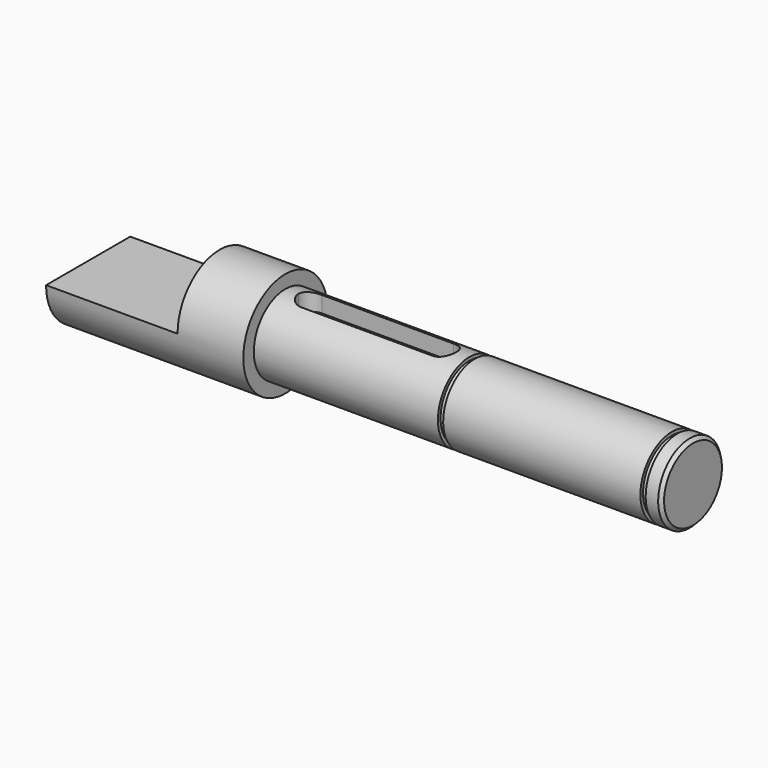
from build123d import *

# Parameters (mm, degrees)
F4_W     = 20
F4_H     = 25.605118
F5_DEPTH = 8
F7_DEPTH = 2.8
F8_SIZE  = 0.5


with BuildPart() as f1:
    # F0 (on Front) → F1 (revolve)
    with BuildSketch(Plane.XZ):
        Polygon((0, 8), (0, 0), (92, 0), (92, 6), (89.6, 6), (89.6, 5.5), (88.8, 5.5), (88.8, 6), (58.8, 6), (58.8, 5.5), (58, 5.5), (58, 6), (30, 6), (30, 8), align=None)
    revolve(axis=Axis((46, 0, 0), (-1, 0, 0)))

    # F4 (on offset) → F5 (cut)
    with BuildSketch(Plane.XY.offset(8)):
        with Locations((10, -2.362951)):
            Rectangle(F4_W, F4_H)
    extrude(amount=-F5_DEPTH, mode=Mode.SUBTRACT)

    # F6 (on offset) → F7 (cut)
    with BuildSketch(Plane.XY.offset(6)):
        with BuildLine():
            Line((54, 2), (34, 2))
            ThreePointArc((34, 2), (32.585786, 1.414214), (32, 0))
            ThreePointArc((32, 0), (32.585786, -1.414214), (34, -2))
            Line((34, -2), (54, -2))
            ThreePointArc((54, -2), (55.414214, -1.414214), (56, 0))
            ThreePointArc((56, 0), (55.414214, 1.414214), (54, 2))
        make_face()
    extrude(amount=-F7_DEPTH, mode=Mode.SUBTRACT)

    # F8
    f8_edges = [f1.edges().sort_by_distance(p)[0] for p in [
        (92, 0, -6),
    ]]
    chamfer(f8_edges, length=F8_SIZE)


solid = f1.part
